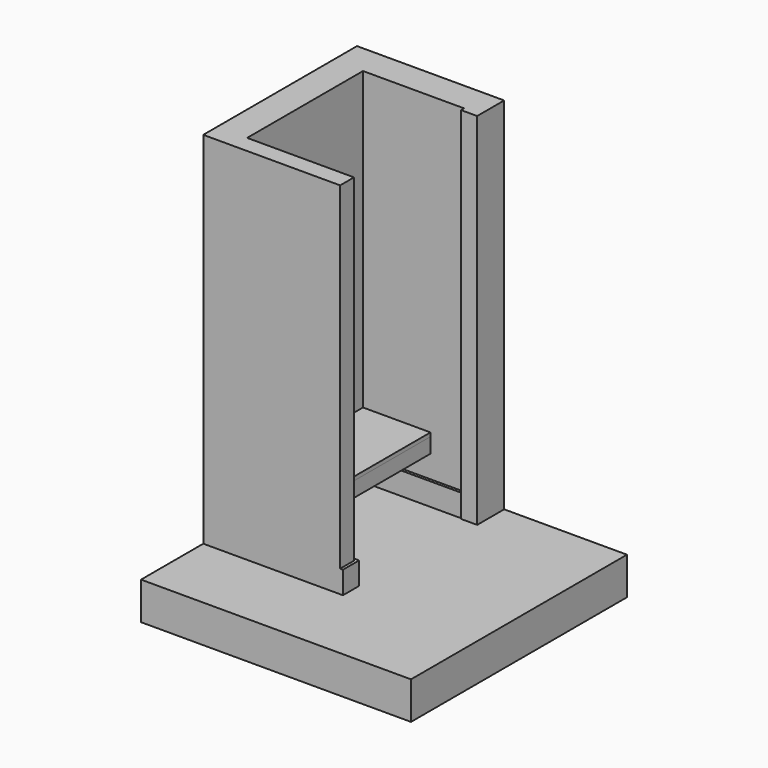
from build123d import *

# Parameters (mm, degrees)
F1_DEPTH  = 2438.4
F3_DEPTH  = 254
F5_DEPTH  = 152.4
F7_W      = 457.2
F7_H      = 981.075
F8_DEPTH  = 25.4
F9_W      = 38.1
F9_H      = 88.9
F10_DEPTH = 981.075
F12_W     = 38.1
F12_H     = 88.9
F13_DEPTH = 981.075
F11_W     = 25.4
F11_H     = 101.6
F14_DEPTH = 981.075
F15_W     = 38.1
F15_H     = 88.9
F16_DEPTH = 355.6


with BuildPart() as f1:
    # F0 (on Top) → F1 (new body)
    with BuildSketch(Plane.XY):
        Polygon((-793.75, 0), (-107.95, 0), (-107.95, -25.4), (0, -25.4), (0, 0), (0, 203.2), (-996.95, 203.2), (-996.95, -1098.55), (-69.85, -1098.55), (-69.85, -981.075), (-793.75, -981.075), align=None)
    extrude(amount=F1_DEPTH)

    # F4 (on face) → F5 (join)
    with BuildSketch(Plane.XY):
        Polygon((-793.75, 0), (-793.75, -981.075), (-69.85, -981.075), (-69.85, -1098.55), (-50.8, -1098.55), (-50.8, -962.025), (-774.7, -962.025), (-774.7, -19.05), (-107.95, -19.05), (-107.95, 0), align=None)
    extrude(amount=F5_DEPTH)


with BuildPart() as f3:
    # F2 (on face) → F3 (new body)
    with BuildSketch(Plane(origin=(0, 0, 0), x_dir=(1, 0, 0), z_dir=(0, 0, -1))):
        Polygon((0, 25.4), (0, -203.2), (831.85, -203.2), (831.85, 1625.6), (-996.95, 1625.6), (-996.95, 1098.55), (-69.85, 1098.55), (-69.85, 981.075), (-793.75, 981.075), (-793.75, 0), (-107.95, 0), (-107.95, 25.4), align=None)
        Polygon((-996.95, 1098.55), (-996.95, -203.2), (0, -203.2), (0, 25.4), (-107.95, 25.4), (-107.95, 0), (-793.75, 0), (-793.75, 981.075), (-69.85, 981.075), (-69.85, 1098.55), align=None)
    extrude(amount=F3_DEPTH)


with BuildPart() as f8:
    # F7 (on offset) → F8 (new body)
    with BuildSketch(Plane.XY.offset(431.8)):
        with Locations((-565.15, -490.5375)):
            Rectangle(F7_W, F7_H)
    extrude(amount=-F8_DEPTH)


with BuildPart() as f10:
    # F9 (on face) → F10 (new body, through all)
    with BuildSketch(Plane.XZ):
        with Locations((-774.7, 361.95)):
            Rectangle(F9_W, F9_H)
    extrude(amount=F10_DEPTH)


with BuildPart() as f13:
    # F12 (on face) → F13 (new body, through all)
    with BuildSketch(Plane(origin=(0, -981.075, 0), x_dir=(-1, 0, 0), z_dir=(0, 1, 0))):
        with Locations((381, 361.95)):
            Rectangle(F12_W, F12_H)
    extrude(amount=F13_DEPTH)


with BuildPart() as f14:
    # F11 (on face) → F14 (new body, through all)
    with BuildSketch(Plane(origin=(0, -981.075, 0), x_dir=(-1, 0, 0), z_dir=(0, 1, 0))):
        with Locations((349.25, 355.6)):
            Rectangle(F11_W, F11_H)
    extrude(amount=F14_DEPTH)


with BuildPart() as f16:
    # F15 (on face) → F16 (new body, through all)
    with BuildSketch(Plane.YZ.offset(-755.65)):
        with Locations((-962.025, 361.95)):
            Rectangle(F15_W, F15_H)
    extrude(amount=F16_DEPTH)


with BuildPart() as f16b:
    # F15 (on face) → F16, piece 2 (new body, through all)
    with BuildSketch(Plane.YZ.offset(-755.65)):
        with Locations((-490.5375, 361.95)):
            Rectangle(F15_W, F15_H)
    extrude(amount=F16_DEPTH)


with BuildPart() as f16c:
    # F15 (on face) → F16, piece 3 (new body, through all)
    with BuildSketch(Plane.YZ.offset(-755.65)):
        with Locations((-19.05, 361.95)):
            Rectangle(F15_W, F15_H)
    extrude(amount=F16_DEPTH)


solid = Compound([f1.part, f3.part, f8.part, f10.part, f13.part, f14.part, f16.part, f16b.part, f16c.part])
